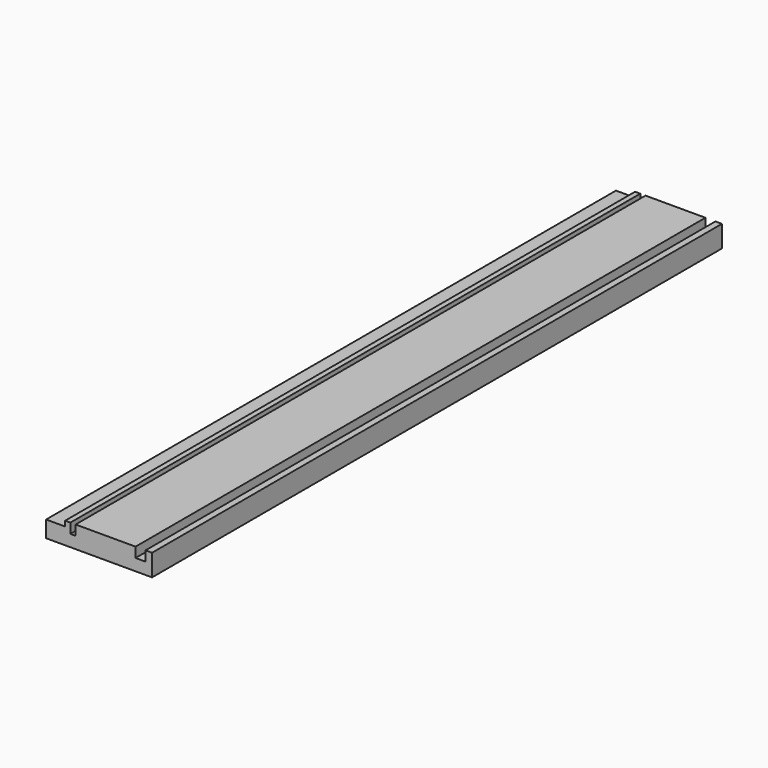
from build123d import *

# Parameters (mm, degrees)
SKETCH_W             = 410
SKETCH_H             = 61
PAD_DEPTH            = 11.5
SKETCH001_W          = 11
SKETCH001_H          = 3
POCKET_DEPTH         = 410.001
SKETCH002_W          = 5.75
SKETCH002_H          = 5.75
POCKET001_DEPTH      = 410.001
SKETCH003_W          = 3
SKETCH003_H          = 5.75
POCKET002_DEPTH      = 410.001
SKETCH005_W          = 410
SKETCH005_H          = 61
PAD001_DEPTH         = 1
BODY_PLACEMENT_ANGLE = 90


with BuildPart() as part:
    # Sketch → Pad (new body)
    with BuildSketch(Plane.XY):
        with Locations((205, 30.5)):
            Rectangle(SKETCH_W, SKETCH_H)
    extrude(amount=PAD_DEPTH)

    # Sketch001 (on Face4 of Pad) → Pocket (cut, through all)
    with BuildSketch(Plane(origin=(0, 0, 0), x_dir=(0, -1, 0), z_dir=(-1, 0, 0))):
        with Locations((-55.5, 10)):
            Rectangle(SKETCH001_W, SKETCH001_H)
    extrude(amount=-POCKET_DEPTH, mode=Mode.SUBTRACT)

    # Sketch002 (on Face2 of Pocket) → Pocket001 (cut, through all)
    with BuildSketch(Plane(origin=(0, 0, 0), x_dir=(0, -1, 0), z_dir=(-1, 0, 0))):
        with Locations((-6.625, 8.625)):
            Rectangle(SKETCH002_W, SKETCH002_H)
    extrude(amount=-POCKET001_DEPTH, mode=Mode.SUBTRACT)

    # Sketch003 (on Face2 of Pocket001) → Pocket002 (cut, through all)
    with BuildSketch(Plane(origin=(0, 0, 0), x_dir=(0, -1, 0), z_dir=(-1, 0, 0))):
        with Locations((-45.5, 8.625)):
            Rectangle(SKETCH003_W, SKETCH003_H)
    extrude(amount=-POCKET002_DEPTH, mode=Mode.SUBTRACT)

    # Sketch005 (on Face4 of Pocket002) → Pad001 (join)
    with BuildSketch(Plane(origin=(0, 0, 0), x_dir=(1, 0, 0), z_dir=(0, 0, -1))):
        with Locations((205, -30.5)):
            Rectangle(SKETCH005_W, SKETCH005_H)
    extrude(amount=PAD001_DEPTH)


with BuildPart() as part_1:
    # Body placement: moved
    add(part.part.moved(Location((0, 0, -11.5))).rotate(Axis((0, 0, -11.5), (0, 0, 1)), BODY_PLACEMENT_ANGLE))


solid = part_1.part
